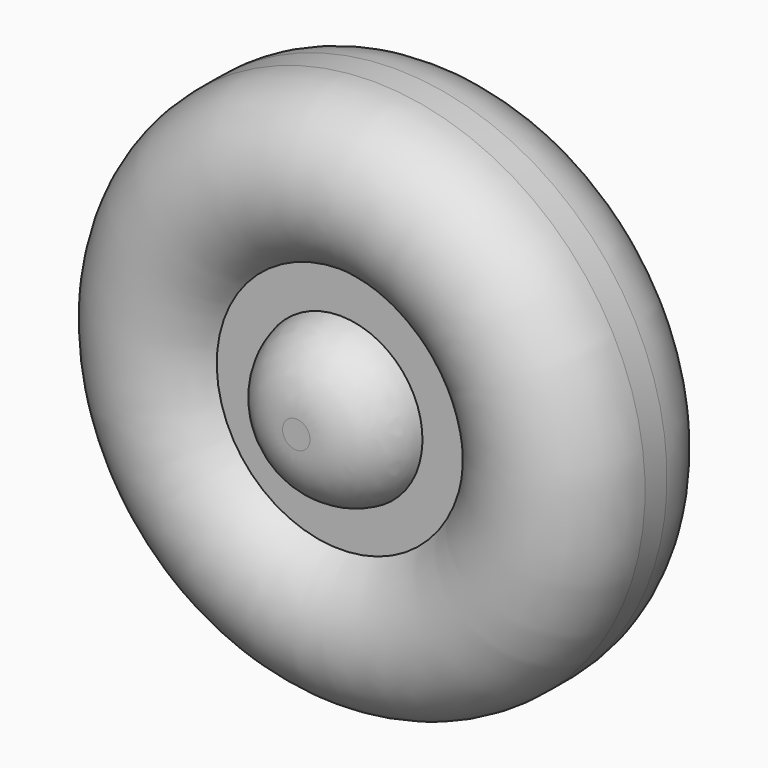
from build123d import *

# Parameters (mm, degrees)
F2_R     = 3
F3_DEPTH = 10


with BuildPart() as f1:
    # F0 (on Right) → F1 (revolve)
    with BuildSketch(Plane.YZ):
        with BuildLine():
            Line((-15, 0), (0, 0))
            Line((0, 0), (0, 6))
            Line((0, 6), (-3, 6))
            Line((-3, 6), (-3, 9))
            ThreePointArc((-3, 9), (-4.932951, 8.267513), (-7, 8.255437))
            ThreePointArc((-7, 8.255437), (-9.067049, 8.267513), (-11, 9))
            Line((-11, 9), (-11, 6))
            ThreePointArc((-11, 6), (-13.90536, 4.224288), (-15, 1))
            Line((-15, 1), (-15, 0))
        make_face()
        with BuildLine():
            ThreePointArc((-7, 8.255437), (-4.932951, 8.267513), (-3, 9))
            ThreePointArc((-3, 9), (-0.380625, 15.556477), (-6, 19.830952))
            Line((-6, 19.830952), (-8, 19.830952))
            ThreePointArc((-8, 19.830952), (-13.619375, 15.556477), (-11, 9))
            ThreePointArc((-11, 9), (-9.067049, 8.267513), (-7, 8.255437))
        make_face()
        with BuildLine():
            ThreePointArc((-7, 19.744563), (-2.169048, 14), (-7, 8.255437))
            ThreePointArc((-7, 8.255437), (-11.830952, 14), (-7, 19.744563))
        make_face(mode=Mode.SUBTRACT)
    revolve(axis=Axis((0, -11.735055, 0), (0, -1, 0)))

    # F2 (on face) → F3 (cut)
    with BuildSketch(Plane(origin=(0, 0, 0), x_dir=(-1, 0, 0), z_dir=(0, 1, 0))):
        Circle(F2_R)
    extrude(amount=-F3_DEPTH, mode=Mode.SUBTRACT)


solid = f1.part
